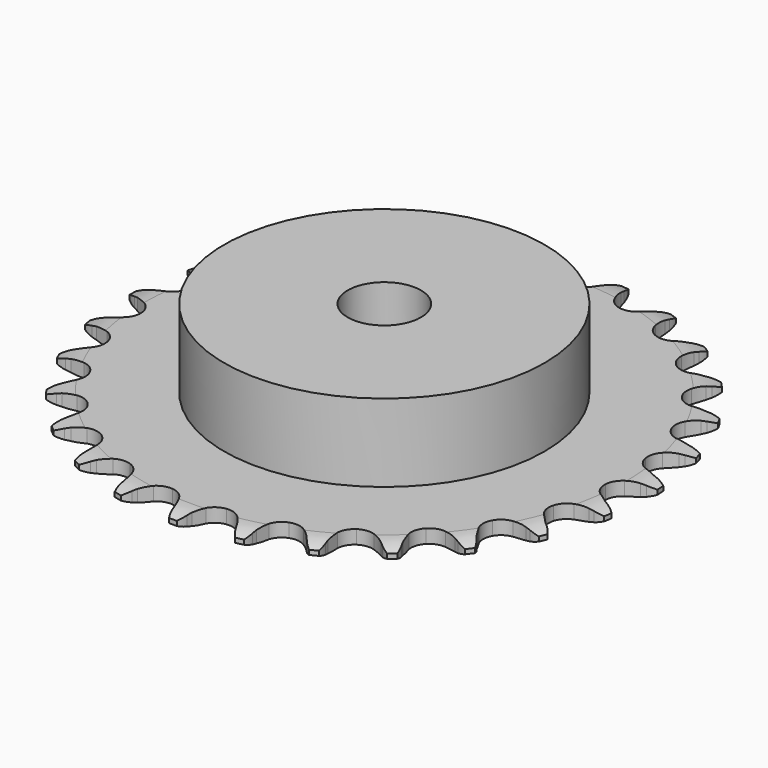
from build123d import *

# Parameters (mm, degrees)
PAD_DEPTH         = 3
SKETCH001_R       = 35
PAD001_DEPTH      = 20
SKETCH002_R       = 8
POCKET_DEPTH      = 0.001
POCKET_DEPTH_BACK = 20.001


with BuildPart() as part:
    # Sprocket → Pad (new body)
    with BuildSketch(Plane.XY):
        with BuildLine():
            ThreePointArc((-6.823525, 58.378983), (-5.678024, 57.18562), (-4.88095, 55.736152))
            Line((-4.88095, 55.736152), (-4.503545, 54.767973))
            ThreePointArc((-4.503545, 54.767973), (-3.902713, 53.495626), (-3.131412, 52.318782))
            ThreePointArc((-3.131412, 52.318782), (-1.747834, 51.174864), (0, 50.765092))
            ThreePointArc((0, 50.765092), (1.747834, 51.174864), (3.131412, 52.318782))
            ThreePointArc((3.131412, 52.318782), (3.902713, 53.495626), (4.503545, 54.767973))
            Line((4.503545, 54.767973), (4.88095, 55.736152))
            ThreePointArc((4.88095, 55.736152), (5.678024, 57.18562), (6.823525, 58.378983))
            ThreePointArc((6.823525, 58.378983), (7.662939, 56.953617), (8.104258, 55.359402))
            Line((8.104258, 55.359402), (8.248213, 54.330284))
            ThreePointArc((8.248213, 54.330284), (8.539426, 52.953672), (9.018537, 51.630676))
            ThreePointArc((9.018537, 51.630676), (10.101015, 50.198517), (11.707236, 49.396713))
            ThreePointArc((11.707236, 49.396713), (13.502456, 49.392361), (15.112545, 50.186369))
            Line((15.112545, 50.186369), (17.012515, 52.253107))
            ThreePointArc((17.012515, 52.253107), (17.296801, 52.688205), (17.603025, 53.108153))
            ThreePointArc((17.603025, 53.108153), (18.712884, 54.334732), (20.102716, 55.231757))
            ThreePointArc((20.102716, 55.231757), (20.590792, 53.65123), (20.652563, 51.998211))
            Line((20.652563, 51.998211), (20.555307, 50.963636))
            ThreePointArc((20.555307, 50.963636), (20.521202, 49.556972), (20.682295, 48.159146))
            ThreePointArc((20.682295, 48.159146), (21.405316, 46.515955), (22.783332, 45.365344))
            ThreePointArc((22.783332, 45.365344), (24.529158, 44.947103), (26.278958, 45.348396))
            Line((26.278958, 45.348396), (28.604336, 46.921261))
            ThreePointArc((28.604336, 46.921261), (28.9813, 47.27907), (29.376116, 47.617079))
            ThreePointArc((29.376116, 47.617079), (30.738927, 48.554644), (32.298164, 49.106973))
            ThreePointArc((32.298164, 49.106973), (32.408589, 47.45649), (32.087484, 45.833784))
            Line((32.087484, 45.833784), (31.754259, 44.849524))
            ThreePointArc((31.754259, 44.849524), (31.396674, 43.488642), (31.231064, 42.091345))
            ThreePointArc((31.231064, 42.091345), (31.55565, 40.325706), (32.631172, 38.888317))
            ThreePointArc((32.631172, 38.888317), (34.233487, 38.078735), (36.028665, 38.06568))
            Line((36.028665, 38.06568), (38.65409, 39.059879))
            ThreePointArc((38.65409, 39.059879), (39.103409, 39.321109), (39.565533, 39.558956))
            ThreePointArc((39.565533, 39.558956), (41.107827, 40.156963), (42.75241, 40.334819))
            ThreePointArc((42.75241, 40.334819), (42.479232, 38.703359), (41.792559, 37.198445))
            Line((41.792559, 37.198445), (41.241331, 36.317563))
            ThreePointArc((41.241331, 36.317563), (40.579544, 35.075829), (40.096159, 33.754388))
            ThreePointArc((40.096159, 33.754388), (40.004812, 31.961488), (40.719858, 30.314811))
            ThreePointArc((40.719858, 30.314811), (42.092279, 29.157532), (43.836058, 28.730832))
            Line((43.836058, 28.730832), (46.619992, 29.092768))
            ThreePointArc((46.619992, 29.092768), (47.117444, 29.243337), (47.621962, 29.368199))
            ThreePointArc((47.621962, 29.368199), (49.260593, 29.59441), (50.901863, 29.388204))
            ThreePointArc((50.901863, 29.388204), (50.259807, 27.86372), (49.244587, 26.557729))
            Line((49.244587, 26.557729), (48.505072, 25.827713))
            ThreePointArc((48.505072, 25.827713), (47.57476, 24.772068), (46.799659, 23.597723))
            ThreePointArc((46.799659, 23.597723), (46.297303, 21.874217), (46.613326, 20.107026))
            ThreePointArc((46.613326, 20.107026), (47.681866, 18.664439), (49.280237, 17.847098))
            Line((49.280237, 17.847098), (52.072598, 17.557259))
            ThreePointArc((52.072598, 17.557259), (52.591364, 17.589049), (53.111078, 17.594195))
            ThreePointArc((53.111078, 17.594195), (54.757708, 17.436414), (56.307183, 16.857264))
            ThreePointArc((56.307183, 16.857264), (55.330864, 15.521941), (54.041827, 14.485279))
            Line((54.041827, 14.485279), (53.153892, 13.945485))
            ThreePointArc((53.153892, 13.945485), (52.005208, 13.13284), (50.980178, 12.1689))
            ThreePointArc((50.980178, 12.1689), (50.093895, 10.607702), (49.993857, 8.815266))
            ThreePointArc((49.993857, 8.815266), (50.700911, 7.165142), (52.067706, 6.001223))
            Line((52.067706, 6.001223), (54.717957, 5.075233))
            ThreePointArc((54.717957, 5.075233), (55.230071, 4.98653), (55.736963, 4.871684))
            ThreePointArc((55.736963, 4.871684), (57.302821, 4.338417), (58.676968, 3.417544))
            ThreePointArc((58.676968, 3.417544), (57.419019, 2.34337), (55.925658, 1.631923))
            Line((55.925658, 1.631923), (54.937172, 1.311451))
            ThreePointArc((54.937172, 1.311451), (53.632042, 0.785616), (52.412342, 0.084047))
            ThreePointArc((52.412342, 0.084047), (51.189912, -1.230677), (50.679206, -2.951728))
            ThreePointArc((50.679206, -2.951728), (50.986657, -4.72043), (52.048191, -6.16818))
            Line((52.048191, -6.16818), (54.413457, -7.6804))
            ThreePointArc((54.413457, -7.6804), (54.89131, -7.884813), (55.358054, -8.113461))
            ThreePointArc((55.358054, -8.113461), (56.758724, -8.993466), (57.883462, -10.206416))
            ThreePointArc((57.883462, -10.206416), (56.4117, -10.961533), (54.794522, -11.30941))
            Line((54.794522, -11.30941), (53.758775, -11.393283))
            ThreePointArc((53.758775, -11.393283), (52.367559, -11.603961), (51.018943, -12.005336))
            ThreePointArc((51.018943, -12.005336), (49.526268, -13.00271), (48.632426, -14.559593))
            ThreePointArc((48.632426, -14.559593), (48.523699, -16.351523), (49.222745, -18.005055))
            Line((49.222745, -18.005055), (51.175513, -20.02198))
            ThreePointArc((51.175513, -20.02198), (51.593345, -20.331085), (51.994777, -20.661207))
            ThreePointArc((51.994777, -20.661207), (53.154749, -21.840508), (53.969445, -23.280146))
            ThreePointArc((53.969445, -23.280146), (52.363212, -23.675497), (50.709399, -23.64105))
            Line((50.709399, -23.64105), (49.682229, -23.483803))
            ThreePointArc((49.682229, -23.483803), (48.279927, -23.367965), (46.8751, -23.447509))
            ThreePointArc((46.8751, -23.447509), (45.192649, -24.073764), (43.96386, -25.382546))
            ThreePointArc((43.96386, -25.382546), (43.444816, -27.1011), (43.743688, -28.871273))
            Line((43.743688, -28.871273), (45.178684, -31.284171))
            ThreePointArc((45.178684, -31.284171), (45.513969, -31.681302), (45.828449, -32.095103))
            ThreePointArc((45.828449, -32.095103), (46.685188, -33.510123), (47.14592, -35.098837))
            ThreePointArc((47.14592, -35.098837), (45.49181, -35.113109), (43.890519, -34.698194))
            Line((43.890519, -34.698194), (42.9273, -34.308304))
            ThreePointArc((42.9273, -34.308304), (41.589512, -33.872196), (40.204208, -33.62562))
            ThreePointArc((40.204208, -33.62562), (38.422684, -33.846995), (36.92519, -34.83712))
            ThreePointArc((36.92519, -34.83712), (36.023811, -36.389651), (35.906398, -38.181033))
            Line((35.906398, -38.181033), (36.74626, -40.859823))
            ThreePointArc((36.74626, -40.859823), (36.980923, -41.323572), (37.191497, -41.798743))
            ThreePointArc((37.191497, -41.798743), (37.698816, -43.373199), (37.780747, -45.025341))
            ThreePointArc((37.780747, -45.025341), (36.167932, -44.657764), (34.70549, -43.88475))
            Line((34.70549, -43.88475), (33.85815, -43.283236))
            ThreePointArc((33.85815, -43.283236), (32.656995, -42.550368), (31.365897, -41.990966))
            ThreePointArc((31.365897, -41.990966), (29.581341, -41.795525), (27.895874, -42.413616))
            ThreePointArc((27.895874, -42.413616), (26.660754, -43.716426), (26.133384, -45.432443))
            Line((26.133384, -45.432443), (26.332836, -48.232712))
            ThreePointArc((26.332836, -48.232712), (26.454226, -48.738077), (26.549542, -49.249002))
            ThreePointArc((26.549542, -49.249002), (26.680092, -50.898014), (26.378804, -52.524517))
            ThreePointArc((26.378804, -52.524517), (24.894232, -51.794907), (23.649479, -50.705468))
            Line((23.649479, -50.705468), (22.963698, -49.924757))
            ThreePointArc((22.963698, -49.924757), (21.963932, -48.934639), (20.836642, -48.092567))
            ThreePointArc((20.836642, -48.092567), (19.145261, -47.490848), (17.362684, -47.703583))
            ThreePointArc((17.362684, -47.703583), (15.860408, -48.686437), (14.951513, -50.234579))
            Line((14.951513, -50.234579), (14.499802, -53.005363))
            ThreePointArc((14.499802, -53.005363), (14.501375, -53.5251), (14.476294, -54.044234))
            ThreePointArc((14.476294, -54.044234), (14.223037, -55.678904), (13.554773, -57.192083))
            ThreePointArc((13.554773, -57.192083), (12.278477, -56.139773), (11.318519, -54.792641))
            Line((11.318519, -54.792641), (10.831267, -53.874822))
            ThreePointArc((10.831267, -53.874822), (10.086787, -52.68083), (9.184078, -51.601486))
            ThreePointArc((9.184078, -51.601486), (7.677055, -50.625927), (5.893468, -50.421837))
            ThreePointArc((5.893468, -50.421837), (4.205024, -51.031749), (2.963602, -52.328556))
            Line((2.963602, -52.328556), (1.88508, -54.920481))
            ThreePointArc((1.88508, -54.920481), (1.766751, -55.426572), (1.622626, -55.925928))
            ThreePointArc((1.622626, -55.925928), (0.999214, -57.45813), (0, -58.776408))
            ThreePointArc((0, -58.776408), (-0.999214, -57.45813), (-1.622626, -55.925928))
            Line((-1.622626, -55.925928), (-1.88508, -54.920481))
            ThreePointArc((-1.88508, -54.920481), (-2.334139, -53.586985), (-2.963602, -52.328556))
            ThreePointArc((-2.963602, -52.328556), (-4.205024, -51.031749), (-5.893468, -50.421837))
            ThreePointArc((-5.893468, -50.421837), (-7.677055, -50.625927), (-9.184078, -51.601486))
            Line((-9.184078, -51.601486), (-10.831267, -53.874822))
            ThreePointArc((-10.831267, -53.874822), (-11.063119, -54.339982), (-11.318519, -54.792641))
            ThreePointArc((-11.318519, -54.792641), (-12.278477, -56.139773), (-13.554773, -57.192083))
            ThreePointArc((-13.554773, -57.192083), (-14.223037, -55.678904), (-14.476294, -54.044234))
            Line((-14.476294, -54.044234), (-14.499802, -53.005363))
            ThreePointArc((-14.499802, -53.005363), (-14.629232, -51.604251), (-14.951513, -50.234579))
            ThreePointArc((-14.951513, -50.234579), (-15.860408, -48.686437), (-17.362684, -47.703583))
            ThreePointArc((-17.362684, -47.703583), (-19.145261, -47.490848), (-20.836642, -48.092567))
            Line((-20.836642, -48.092567), (-22.963698, -49.924757))
            ThreePointArc((-22.963698, -49.924757), (-23.296574, -50.32391), (-23.649479, -50.705468))
            ThreePointArc((-23.649479, -50.705468), (-24.894232, -51.794907), (-26.378804, -52.524517))
            ThreePointArc((-26.378804, -52.524517), (-26.680092, -50.898014), (-26.549542, -49.249002))
            Line((-26.549542, -49.249002), (-26.332836, -48.232712))
            ThreePointArc((-26.332836, -48.232712), (-26.135658, -46.839519), (-26.133384, -45.432443))
            ThreePointArc((-26.133384, -45.432443), (-26.660754, -43.716426), (-27.895874, -42.413616))
            ThreePointArc((-27.895874, -42.413616), (-29.581341, -41.795525), (-31.365897, -41.990966))
            Line((-31.365897, -41.990966), (-33.85815, -43.283236))
            ThreePointArc((-33.85815, -43.283236), (-34.274104, -43.594863), (-34.70549, -43.88475))
            ThreePointArc((-34.70549, -43.88475), (-36.167932, -44.657764), (-37.780747, -45.025341))
            ThreePointArc((-37.780747, -45.025341), (-37.698816, -43.373199), (-37.191497, -41.798743))
            Line((-37.191497, -41.798743), (-36.74626, -40.859823))
            ThreePointArc((-36.74626, -40.859823), (-36.233104, -39.549656), (-35.906398, -38.181033))
            ThreePointArc((-35.906398, -38.181033), (-36.023811, -36.389651), (-36.92519, -34.83712))
            ThreePointArc((-36.92519, -34.83712), (-38.422684, -33.846995), (-40.204208, -33.62562))
            Line((-40.204208, -33.62562), (-42.9273, -34.308304))
            ThreePointArc((-42.9273, -34.308304), (-43.403908, -34.515605), (-43.890519, -34.698194))
            ThreePointArc((-43.890519, -34.698194), (-45.49181, -35.113109), (-47.14592, -35.098837))
            ThreePointArc((-47.14592, -35.098837), (-46.685188, -33.510123), (-45.828449, -32.095103))
            Line((-45.828449, -32.095103), (-45.178684, -31.284171))
            ThreePointArc((-45.178684, -31.284171), (-44.377215, -30.127661), (-43.743688, -28.871273))
            ThreePointArc((-43.743688, -28.871273), (-43.444816, -27.1011), (-43.96386, -25.382546))
            ThreePointArc((-43.96386, -25.382546), (-45.192649, -24.073764), (-46.8751, -23.447509))
            Line((-46.8751, -23.447509), (-49.682229, -23.483803))
            ThreePointArc((-49.682229, -23.483803), (-50.193797, -23.575602), (-50.709399, -23.64105))
            ThreePointArc((-50.709399, -23.64105), (-52.363212, -23.675497), (-53.969445, -23.280146))
            ThreePointArc((-53.969445, -23.280146), (-53.154749, -21.840508), (-51.994777, -20.661207))
            Line((-51.994777, -20.661207), (-51.175513, -20.02198))
            ThreePointArc((-51.175513, -20.02198), (-50.128938, -19.081476), (-49.222745, -18.005055))
            ThreePointArc((-49.222745, -18.005055), (-48.523699, -16.351523), (-48.632426, -14.559593))
            ThreePointArc((-48.632426, -14.559593), (-49.526268, -13.00271), (-51.018943, -12.005336))
            Line((-51.018943, -12.005336), (-53.758775, -11.393283))
            ThreePointArc((-53.758775, -11.393283), (-54.277724, -11.364633), (-54.794522, -11.30941))
            ThreePointArc((-54.794522, -11.30941), (-56.4117, -10.961533), (-57.883462, -10.206416))
            ThreePointArc((-57.883462, -10.206416), (-56.758724, -8.993466), (-55.358054, -8.113461))
            Line((-55.358054, -8.113461), (-54.413457, -7.6804))
            ThreePointArc((-54.413457, -7.6804), (-53.178197, -7.006604), (-52.048191, -6.16818))
            ThreePointArc((-52.048191, -6.16818), (-50.986657, -4.72043), (-50.679206, -2.951728))
            ThreePointArc((-50.679206, -2.951728), (-51.189912, -1.230677), (-52.412342, 0.084047))
            Line((-52.412342, 0.084047), (-54.937172, 1.311451))
            ThreePointArc((-54.937172, 1.311451), (-55.435526, 1.459007), (-55.925658, 1.631923))
            ThreePointArc((-55.925658, 1.631923), (-57.419019, 2.34337), (-58.676968, 3.417544))
            ThreePointArc((-58.676968, 3.417544), (-57.302821, 4.338417), (-55.736963, 4.871684))
            Line((-55.736963, 4.871684), (-54.717957, 5.075233))
            ThreePointArc((-54.717957, 5.075233), (-53.360606, 5.445996), (-52.067706, 6.001223))
            ThreePointArc((-52.067706, 6.001223), (-50.700911, 7.165142), (-49.993857, 8.815266))
            ThreePointArc((-49.993857, 8.815266), (-50.093895, 10.607702), (-50.980178, 12.1689))
            Line((-50.980178, 12.1689), (-53.153892, 13.945485))
            ThreePointArc((-53.153892, 13.945485), (-53.604784, 14.203991), (-54.041827, 14.485279))
            ThreePointArc((-54.041827, 14.485279), (-55.330864, 15.521941), (-56.307183, 16.857264))
            ThreePointArc((-56.307183, 16.857264), (-54.757708, 17.436414), (-53.111078, 17.594195))
            Line((-53.111078, 17.594195), (-52.072598, 17.557259))
            ThreePointArc((-52.072598, 17.557259), (-50.666331, 17.605002), (-49.280237, 17.847098))
            ThreePointArc((-49.280237, 17.847098), (-47.681866, 18.664439), (-46.613326, 20.107026))
            ThreePointArc((-46.613326, 20.107026), (-46.297303, 21.874217), (-46.799659, 23.597723))
            Line((-46.799659, 23.597723), (-48.505072, 25.827713))
            ThreePointArc((-48.505072, 25.827713), (-48.884194, 26.183235), (-49.244587, 26.557729))
            ThreePointArc((-49.244587, 26.557729), (-50.259807, 27.86372), (-50.901863, 29.388204))
            ThreePointArc((-50.901863, 29.388204), (-49.260593, 29.59441), (-47.621962, 29.368199))
            Line((-47.621962, 29.368199), (-46.619992, 29.092768))
            ThreePointArc((-46.619992, 29.092768), (-45.240621, 28.814916), (-43.836058, 28.730832))
            ThreePointArc((-43.836058, 28.730832), (-42.092279, 29.157532), (-40.719858, 30.314811))
            ThreePointArc((-40.719858, 30.314811), (-40.004812, 31.961488), (-40.096159, 33.754388))
            Line((-40.096159, 33.754388), (-41.241331, 36.317563))
            ThreePointArc((-41.241331, 36.317563), (-41.528245, 36.750933), (-41.792559, 37.198445))
            ThreePointArc((-41.792559, 37.198445), (-42.479232, 38.703359), (-42.75241, 40.334819))
            ThreePointArc((-42.75241, 40.334819), (-41.107827, 40.156963), (-39.565533, 39.558956))
            Line((-39.565533, 39.558956), (-38.65409, 39.059879))
            ThreePointArc((-38.65409, 39.059879), (-37.375977, 38.471412), (-36.028665, 38.06568))
            ThreePointArc((-36.028665, 38.06568), (-34.233487, 38.078735), (-32.631172, 38.888317))
            ThreePointArc((-32.631172, 38.888317), (-31.55565, 40.325706), (-31.231064, 42.091345))
            Line((-31.231064, 42.091345), (-31.754259, 44.849524))
            ThreePointArc((-31.754259, 44.849524), (-31.933497, 45.33738), (-32.087484, 45.833784))
            ThreePointArc((-32.087484, 45.833784), (-32.408589, 47.45649), (-32.298164, 49.106973))
            ThreePointArc((-32.298164, 49.106973), (-30.738927, 48.554644), (-29.376116, 47.617079))
            Line((-29.376116, 47.617079), (-28.604336, 46.921261))
            ThreePointArc((-28.604336, 46.921261), (-27.496384, 46.053903), (-26.278958, 45.348396))
            ThreePointArc((-26.278958, 45.348396), (-24.529158, 44.947103), (-22.783332, 45.365344))
            ThreePointArc((-22.783332, 45.365344), (-21.405316, 46.515955), (-20.682295, 48.159146))
            Line((-20.682295, 48.159146), (-20.555307, 50.963636))
            ThreePointArc((-20.555307, 50.963636), (-20.617207, 51.479676), (-20.652563, 51.998211))
            ThreePointArc((-20.652563, 51.998211), (-20.590792, 53.65123), (-20.102716, 55.231757))
            ThreePointArc((-20.102716, 55.231757), (-18.712884, 54.334732), (-17.603025, 53.108153))
            Line((-17.603025, 53.108153), (-17.012515, 52.253107))
            ThreePointArc((-17.012515, 52.253107), (-16.134455, 51.153617), (-15.112545, 50.186369))
            ThreePointArc((-15.112545, 50.186369), (-13.502456, 49.392361), (-11.707236, 49.396713))
            ThreePointArc((-11.707236, 49.396713), (-10.101015, 50.198517), (-9.018537, 51.630676))
            Line((-9.018537, 51.630676), (-8.248213, 54.330284))
            ThreePointArc((-8.248213, 54.330284), (-8.189437, 54.84669), (-8.104258, 55.359402))
            ThreePointArc((-8.104258, 55.359402), (-7.662939, 56.953617), (-6.823525, 58.378983))
        make_face()
    extrude(amount=PAD_DEPTH)

    # Sketch → Groove (revolve, cut)
    with BuildSketch(Plane.XZ):
        with BuildLine():
            Line((52.7, 0), (57.7, 0))
            Line((62.7, 0), (57.7, 0))
            Line((62.7, 3), (62.7, 0))
            Line((57.7, 3), (62.7, 3))
            Line((52.7, 3), (57.7, 3))
            ThreePointArc((57.7, 2), (55.24951, 2.747549), (52.7, 3))
            Line((57.7, 1), (57.7, 2))
            ThreePointArc((52.7, 0), (55.24951, 0.252451), (57.7, 1))
        make_face()
    revolve(axis=Axis((0, 0, 0), (0, 0, 1)), mode=Mode.SUBTRACT)

    # Sketch001 → Pad001 (join)
    with BuildSketch(Plane.XY):
        Circle(SKETCH001_R)
    extrude(amount=PAD001_DEPTH)

    # Sketch002 → Pocket (cut, two sides)
    with BuildSketch(Plane.XY) as pocket_sk:
        Circle(SKETCH002_R)
    extrude(amount=-POCKET_DEPTH, mode=Mode.SUBTRACT)
    extrude(pocket_sk.sketch, amount=POCKET_DEPTH_BACK, mode=Mode.SUBTRACT)


solid = part.part
